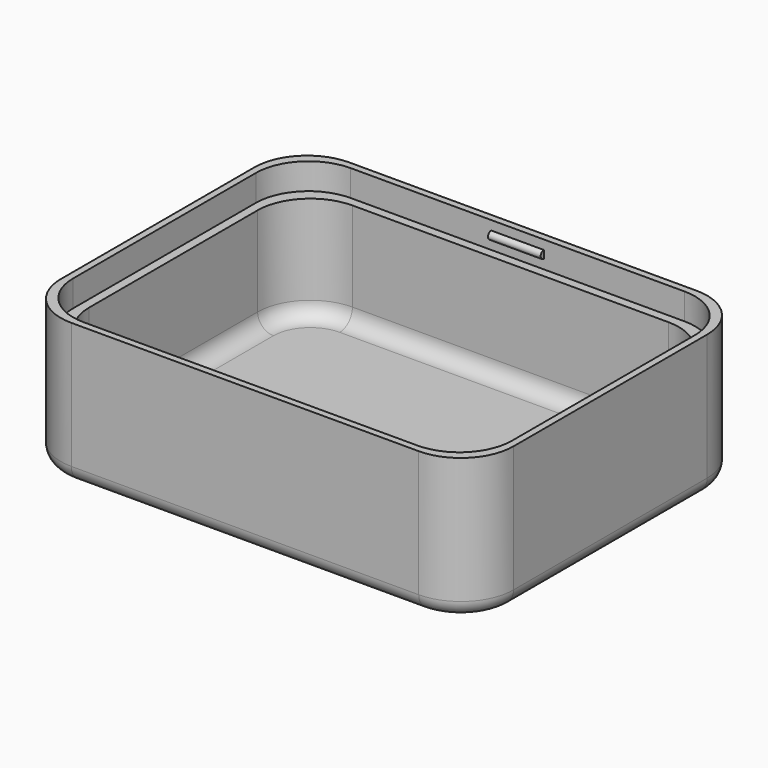
from build123d import *

# Parameters (mm, degrees)
F1_DEPTH  = 27
F3_DEPTH  = 25
F5_DEPTH  = 5
F6_R      = 3
F7_R      = 3
F9_R      = 0.75
F10_DEPTH = 5


with BuildPart() as f1:
    # F0 (on Top) → F1 (new body)
    with BuildSketch(Plane.XY):
        with BuildLine():
            Line((76, 0), (10, 0))
            ThreePointArc((10, 0), (2.928932, -2.928932), (0, -10))
            Line((0, -10), (0, -56))
            ThreePointArc((0, -56), (2.928932, -63.071068), (10, -66))
            Line((10, -66), (76, -66))
            ThreePointArc((76, -66), (83.071068, -63.071068), (86, -56))
            Line((86, -56), (86, -10))
            ThreePointArc((86, -10), (83.071068, -2.928932), (76, 0))
        make_face()
    extrude(amount=F1_DEPTH)

    # F2 (on face) → F3 (cut)
    with BuildSketch(Plane.XY.offset(27)):
        with BuildLine():
            Line((73, -3), (13, -3))
            ThreePointArc((13, -3), (5.928932, -5.928932), (3, -13))
            Line((3, -13), (3, -53))
            ThreePointArc((3, -53), (5.928932, -60.071068), (13, -63))
            Line((13, -63), (73, -63))
            ThreePointArc((73, -63), (80.071068, -60.071068), (83, -53))
            Line((83, -53), (83, -13))
            ThreePointArc((83, -13), (80.071068, -5.928932), (73, -3))
        make_face()
    extrude(amount=-F3_DEPTH, mode=Mode.SUBTRACT)

    # F4 (on face) → F5 (cut)
    with BuildSketch(Plane.XY.offset(27)):
        with BuildLine():
            Line((74.7, -1.3), (11.3, -1.3))
            ThreePointArc((11.3, -1.3), (4.228932, -4.228932), (1.3, -11.3))
            Line((1.3, -11.3), (1.3, -54.7))
            ThreePointArc((1.3, -54.7), (4.228932, -61.771068), (11.3, -64.7))
            Line((11.3, -64.7), (74.7, -64.7))
            ThreePointArc((74.7, -64.7), (81.771068, -61.771068), (84.7, -54.7))
            Line((84.7, -54.7), (84.7, -11.3))
            ThreePointArc((84.7, -11.3), (81.771068, -4.228932), (74.7, -1.3))
        make_face()
    extrude(amount=-F5_DEPTH, mode=Mode.SUBTRACT)

    # F6
    f6_edges = [f1.edges().sort_by_distance(p)[0] for p in [
        (43, 0, 0),
        (2.928932, -2.928932, 0),
        (0, -33, 0),
        (83.071068, -2.928932, 0),
        (86, -33, 0),
        (83.071068, -63.071068, 0),
        (43, -66, 0),
        (2.928932, -63.071068, 0),
    ]]
    fillet(f6_edges, radius=F6_R)

    # F7
    f7_edges = [f1.edges().sort_by_distance(p)[0] for p in [
        (43, -3, 2),
    ]]
    fillet(f7_edges, radius=F7_R)

    # F9 (on offset) → F10 (join, symmetric)
    with BuildSketch(Plane.YZ.offset(43)):
        with Locations((-1.3, 24.5)):
            Circle(F9_R)
        with Locations((-64.7, 24.5)):
            Circle(F9_R)
    extrude(amount=F10_DEPTH, both=True)


solid = f1.part
